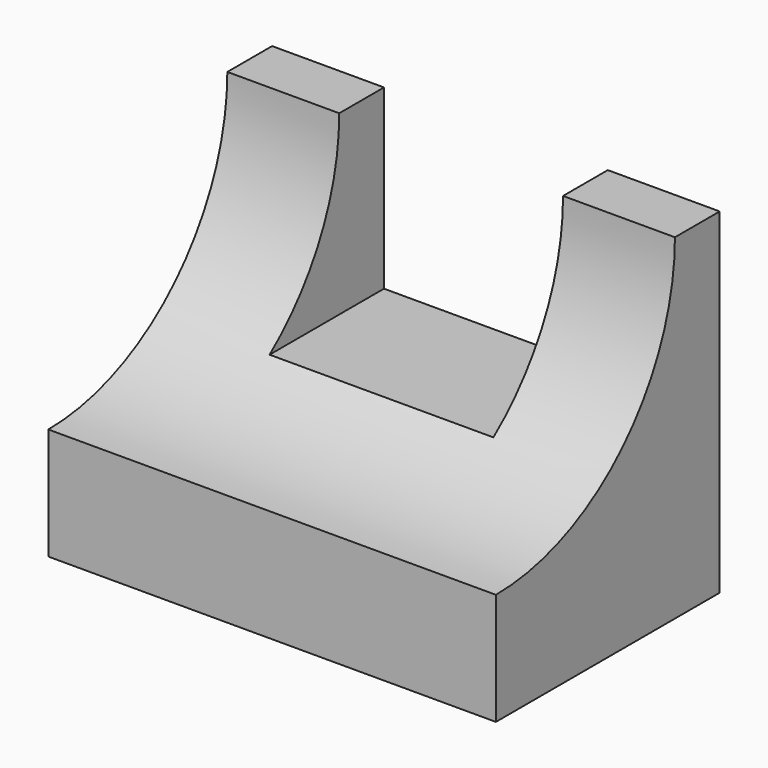
from build123d import *

# Parameters (mm, degrees)
F1_DEPTH = 48
F2_W     = 48
F2_H     = 38
F3_DEPTH = 60.001


with BuildPart() as f1:
    # F0 (on Right) → F1 (new body, symmetric)
    with BuildSketch(Plane.YZ):
        with BuildLine():
            ThreePointArc((48, 0), (33.941125, -33.941125), (0, -48))
            Line((0, -48), (0, -72))
            Line((0, -72), (60, -72))
            Line((60, -72), (60, 0))
            Line((60, 0), (48, 0))
        make_face()
    extrude(amount=F1_DEPTH, both=True)

    # F2 (on face) → F3 (cut, through all)
    with BuildSketch(Plane(origin=(0, 60, 0), x_dir=(-1, 0, 0), z_dir=(0, 1, 0))):
        with Locations((0, -19)):
            Rectangle(F2_W, F2_H)
    extrude(amount=-F3_DEPTH, mode=Mode.SUBTRACT)


solid = f1.part
